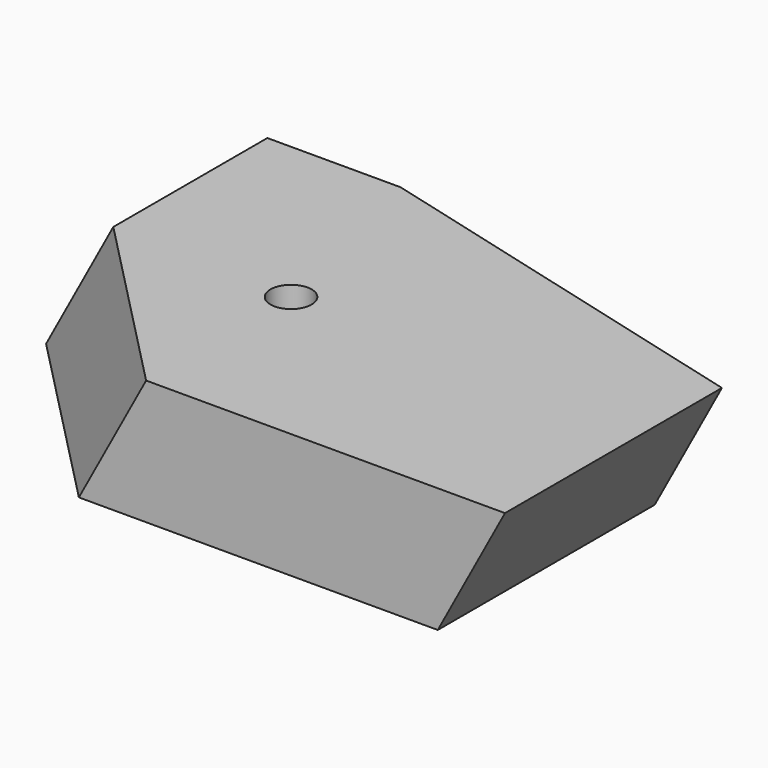
from build123d import *

# Parameters (mm, degrees)
F0_W           = 87.232299149
F0_H           = 65.9088492393
F0_W_2         = 32.4005670846
F0_H_2         = 46.8008210883
F4_D           = 10
F4_CBORE_D     = 15
F4_CBORE_DEPTH = 25


with BuildPart() as f2:
    # F2: sweep along a path in F1
    with BuildLine(Plane.XZ) as f2_path:
        Line((3.3231333364, 0), (19.6618847549, 30.3236078471))
    # F0 (on Top) → F2 (sweep)
    with BuildSketch(Plane.XY):
        Polygon((-40.1545502245, -33.9236706495), (-40.1545502245, 31.9851785898), (47.0777489245, 31.9851785898), (-52.0624481142, 58.2933314145), (-52.0624481142, 11.4925103262), (-84.4630151987, 11.4925103262), align=None)
        with Locations((3.46159935, -0.9692460299)):
            Rectangle(F0_W, F0_H)
        with Locations((-68.2627316564, 34.8929208703)):
            Rectangle(F0_W_2, F0_H_2)
    sweep(path=f2_path.line)

    # F4 (through all)
    with Locations(Plane(origin=(0, 0, 0), x_dir=(1, 0, 0), z_dir=(0, 0, -1))):
        with Locations((-23.7955544144, -10.0916447118)):
            CounterBoreHole(F4_D / 2, F4_CBORE_D / 2, F4_CBORE_DEPTH)


solid = f2.part
